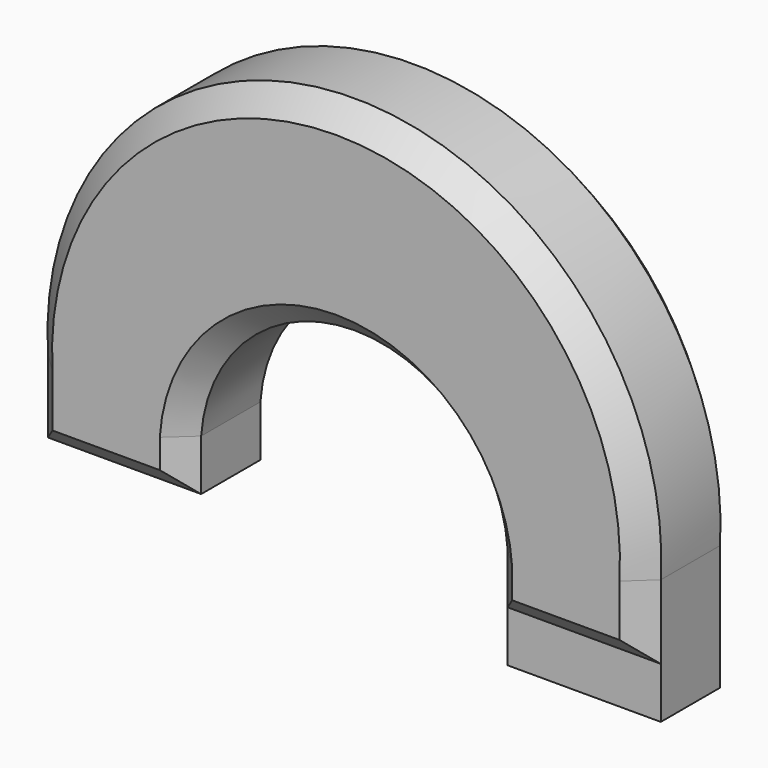
from build123d import *

# Parameters (mm, degrees)
F1_DEPTH = 7.25
F3_DEPTH = 2.25
F3_TAPER = 45
F4_DEPTH = 2.25
F4_TAPER = 45
F5_DEPTH = 5


with BuildPart() as f1:
    # F0 (on Front) → F1 (new body)
    with BuildSketch(Plane.XZ):
        with BuildLine():
            Line((-45, 0), (-30, 0))
            Line((-30, 0), (-30, 5))
            ThreePointArc((-30, 5), (-15, 19), (0, 5))
            Line((0, 5), (0, 0))
            Line((0, 0), (15, 0))
            Line((15, 0), (15, 7.25))
            ThreePointArc((15, 7.25), (-15, 39), (-45, 7.25))
            Line((-45, 7.25), (-45, 0))
        make_face()
    extrude(amount=F1_DEPTH)

    # F2 (on face) → F3 (join)
    with BuildSketch(Plane.XZ.offset(7.25)):
        with BuildLine():
            ThreePointArc((15, 7.25), (-15, 39), (-45, 7.25))
            Line((-45, 7.25), (-45, 0))
            Line((-45, 0), (-30, 0))
            Line((-30, 0), (-30, 5))
            ThreePointArc((-30, 5), (-15, 19), (0, 5))
            Line((0, 5), (0, 0))
            Line((0, 0), (15, 0))
            Line((15, 0), (15, 7.25))
        make_face()
    extrude(amount=F3_DEPTH, taper=F3_TAPER)

    # F1_face1 (on face) → F4 (join)
    with BuildSketch(Plane(origin=(-15, 0, 19.7628829263), x_dir=(1, 0, 0), z_dir=(0, 1, 0))):
        with BuildLine():
            Line((-30, 19.7628829263), (-30, 12.5128829263))
            ThreePointArc((-30, 12.5128829263), (0, -19.2371170737), (30, 12.5128829263))
            Line((30, 12.5128829263), (30, 19.7628829263))
            Line((30, 19.7628829263), (15, 19.7628829263))
            Line((15, 19.7628829263), (15, 14.7628829263))
            ThreePointArc((15, 14.7628829263), (0, 0.7628829263), (-15, 14.7628829263))
            Line((-15, 14.7628829263), (-15, 19.7628829263))
            Line((-15, 19.7628829263), (-30, 19.7628829263))
        make_face()
    extrude(amount=F4_DEPTH, taper=F4_TAPER)

    # F5 (add): a face of the model
    f5_faces = [f1.faces().sort_by_distance(p)[0] for p in [
        (7.5, -3.625, 0),
    ]]
    extrude(f5_faces, amount=F5_DEPTH)


solid = f1.part
